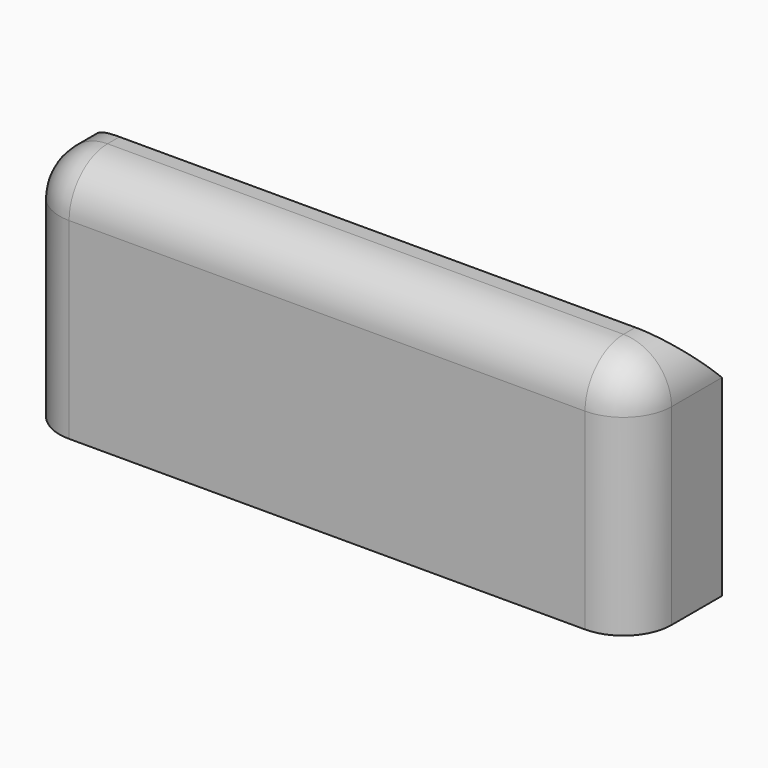
from build123d import *

# Parameters (mm, degrees)
F0_W     = 64.703614
F0_H     = 11.739045
F1_DEPTH = 25.4
F2_R     = 5.08
F3_SIZE  = 5.08
F4_T     = -2.54
F5_R     = 5.08


with BuildPart() as f1:
    # F0 (on Top) → F1 (new body)
    with BuildSketch(Plane.XY):
        with Locations((7.69186, 40.92604)):
            Rectangle(F0_W, F0_H)
    extrude(amount=F1_DEPTH)

    # F2
    f2_edges = [f1.edges().sort_by_distance(p)[0] for p in [
        (7.69186, 35.056517, 25.4),
    ]]
    fillet(f2_edges, radius=F2_R)

    # F3
    f3_edges = [f1.edges().sort_by_distance(p)[0] for p in [
        (7.69186, 46.795562, 25.4),
    ]]
    chamfer(f3_edges, length=F3_SIZE)

    # F4
    f4_openings = [f1.faces().sort_by_distance(p)[0] for p in [
        (7.69186, 40.926039, 0),
    ]]
    offset(amount=F4_T, openings=f4_openings)

    # F5
    f5_edges = [f1.edges().sort_by_distance(p)[0] for p in [
        (40.043667, 35.056517, 10.16),
        (-24.659947, 35.056517, 10.16),
    ]]
    fillet(f5_edges, radius=F5_R)


solid = f1.part
